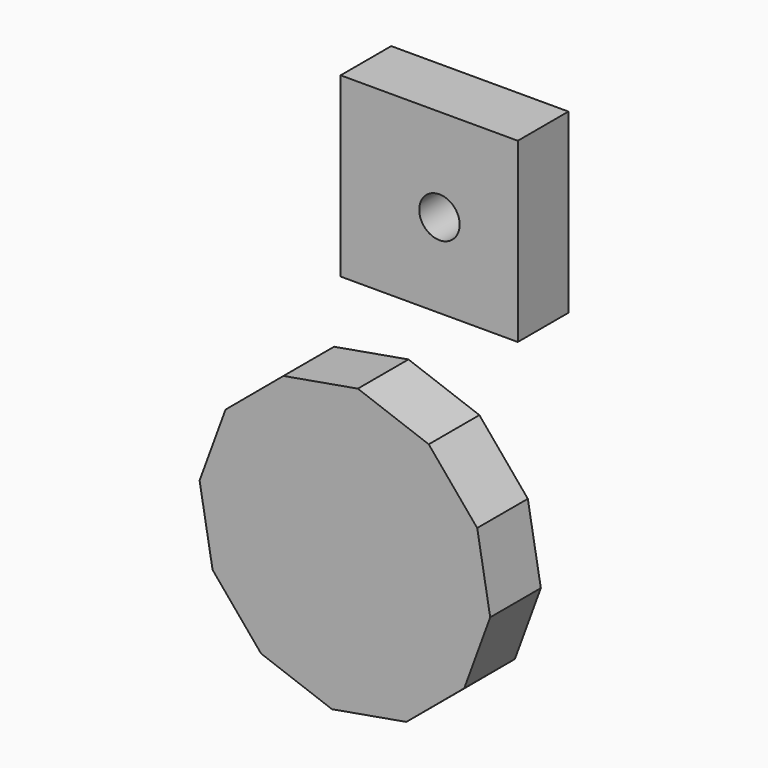
from build123d import *

# Parameters (mm, degrees)
F0_W     = 70
F0_H     = 70
F3_DEPTH = 25
F4_R     = 7.990315
F5_DEPTH = 25


with BuildPart() as f3:
    # F0 (on Front) + F1 (on Front) → F3 (new body)
    with BuildSketch(Plane.XZ):
        with Locations((-246.433649, 1.668485)):
            Rectangle(F0_W, F0_H)
    with BuildSketch(Plane.XZ):
        Polygon((-284.858681, -184.924259), (-255.468569, -179.789737), (-232.583247, -160.648055), (-222.334817, -132.62821), (-227.46934, -103.238098), (-246.611022, -80.352776), (-274.630867, -70.104346), (-304.020979, -75.238868), (-326.906301, -94.380551), (-337.154731, -122.400395), (-332.020209, -151.790507), (-312.878526, -174.67583), align=None)
    extrude(amount=F3_DEPTH)

    # F4 (on face) → F5 (cut)
    with BuildSketch(Plane.XZ.offset(25)):
        with Locations((-242.382079, 0)):
            Circle(F4_R)
    extrude(amount=-F5_DEPTH, mode=Mode.SUBTRACT)


solid = f3.part
